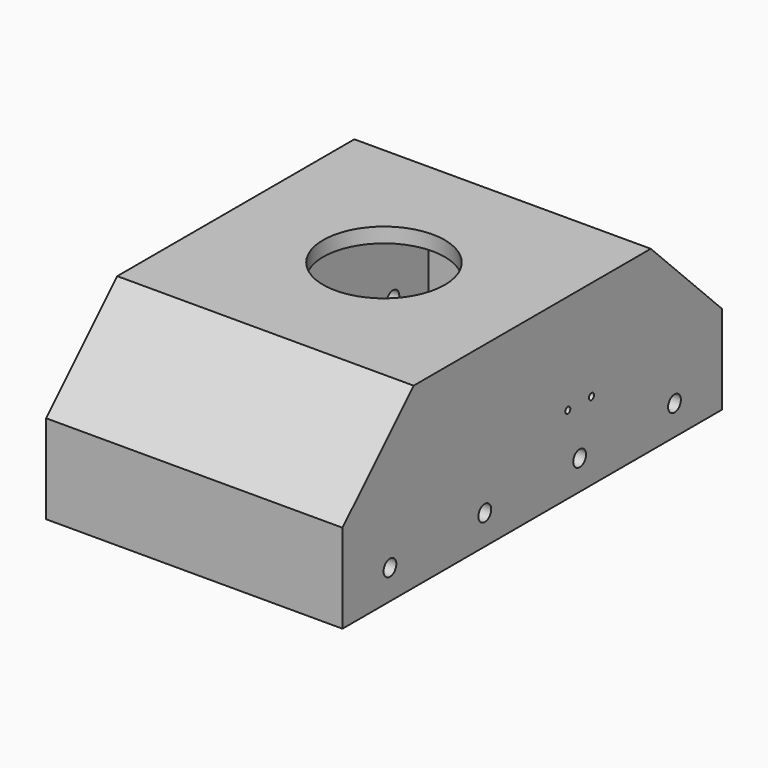
from build123d import *

# Parameters (mm, degrees)
F1_DEPTH  = 101.6
F3_R      = 3.429
F4_DEPTH  = 6.35
F2_R      = 3.429
F5_DEPTH  = 6.35
F6_R      = 26.035
F7_DEPTH  = 6.35
F8_R      = 1.3589
F9_DEPTH  = 127.001
F11_DEPTH = 127.001
F13_DEPTH = 114.3


with BuildPart() as f1:
    # F0 (on Front) → F1 (new body, symmetric)
    with BuildSketch(Plane.XZ):
        Polygon((-57.15, -38.1), (-57.15, 31.75), (57.15, 31.75), (57.15, -38.1), (63.5, -38.1), (63.5, 38.1), (-63.5, 38.1), (-63.5, -38.1), align=None)
    extrude(amount=F1_DEPTH, both=True)

    # F3 (on face) → F4 (cut)
    with BuildSketch(Plane(origin=(-63.5, 0, 0), x_dir=(0, -1, 0), z_dir=(-1, 0, 0))):
        with Locations((-76.2, -25.4)):
            Circle(F3_R)
        with Locations((-25.4, -25.4)):
            Circle(F3_R)
        with Locations((25.4, -25.4)):
            Circle(F3_R)
        with Locations((76.2, -25.4)):
            Circle(F3_R)
    extrude(amount=-F4_DEPTH, mode=Mode.SUBTRACT)

    # F2 (on face) → F5 (cut)
    with BuildSketch(Plane.YZ.offset(63.5)):
        with Locations((-76.2, -25.4)):
            Circle(F2_R)
        with Locations((-25.4, -25.4)):
            Circle(F2_R)
        with Locations((25.4, -25.4)):
            Circle(F2_R)
        with Locations((76.2, -25.4)):
            Circle(F2_R)
    extrude(amount=-F5_DEPTH, mode=Mode.SUBTRACT)

    # F6 (on face) → F7 (cut)
    with BuildSketch(Plane.XY.offset(38.1)):
        Circle(F6_R)
    extrude(amount=-F7_DEPTH, mode=Mode.SUBTRACT)

    # F8 (on face) → F9 (cut, through all)
    with BuildSketch(Plane.YZ.offset(63.5)):
        with Locations((19.05, -4.7498)):
            Circle(F8_R)
        with Locations((31.75, -4.7498)):
            Circle(F8_R)
    extrude(amount=-F9_DEPTH, mode=Mode.SUBTRACT)

    # F10 (on face) → F11 (cut, through all)
    with BuildSketch(Plane.YZ.offset(63.5)):
        Polygon((-63.5, 38.1), (-101.6, 38.1), (-101.6, 0), align=None)
        Polygon((63.5, 38.1), (101.6, 0), (101.6, 38.1), align=None)
    extrude(amount=-F11_DEPTH, mode=Mode.SUBTRACT)

    # F12 (on face) → F13 (join, through all)
    with BuildSketch(Plane.YZ.offset(-57.15)):
        Polygon((-69.85, 31.75), (-101.6, 0), (-101.6, -38.1), (-95.25, -38.1), (-95.25, -2.630256), (-60.869744, 31.75), align=None)
        Polygon((95.25, -2.630256), (95.25, -38.1), (101.6, -38.1), (101.6, 0), (69.85, 31.75), (60.869744, 31.75), align=None)
    extrude(amount=F13_DEPTH)


solid = f1.part
